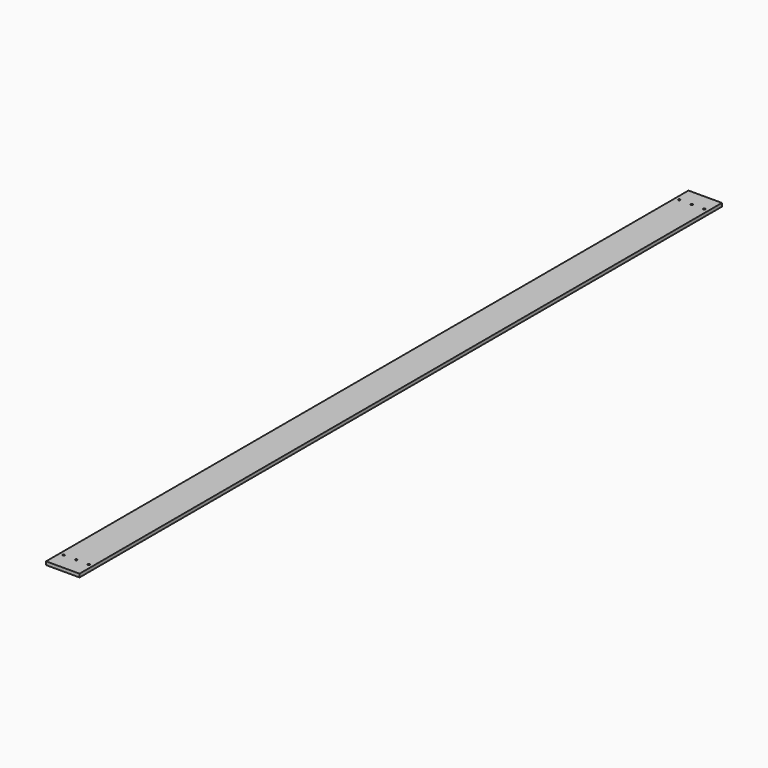
from build123d import *

# Parameters (mm, degrees)
F0_W     = 101.6
F0_H     = 2438.4
F1_DEPTH = 5.08
F2_R     = 3.175
F3_DEPTH = 12.7


with BuildPart() as f1:
    # F0 (on Top) → F1 (new body, symmetric)
    with BuildSketch(Plane.XY):
        Rectangle(F0_W, F0_H)
    extrude(amount=F1_DEPTH, both=True)

    # F2 (on face) → F3 (cut, symmetric)
    with BuildSketch(Plane.XY.offset(5.08)):
        with Locations((0, -1168.4)):
            Circle(F2_R)
        with Locations((0, 1168.4)):
            Circle(F2_R)
        with Locations((-38.1, 1168.4)):
            Circle(F2_R)
        with Locations((38.1, 1168.4)):
            Circle(F2_R)
        with Locations((-38.1, -1168.4)):
            Circle(F2_R)
        with Locations((38.1, -1168.4)):
            Circle(F2_R)
    extrude(amount=F3_DEPTH, both=True, mode=Mode.SUBTRACT)


solid = f1.part
